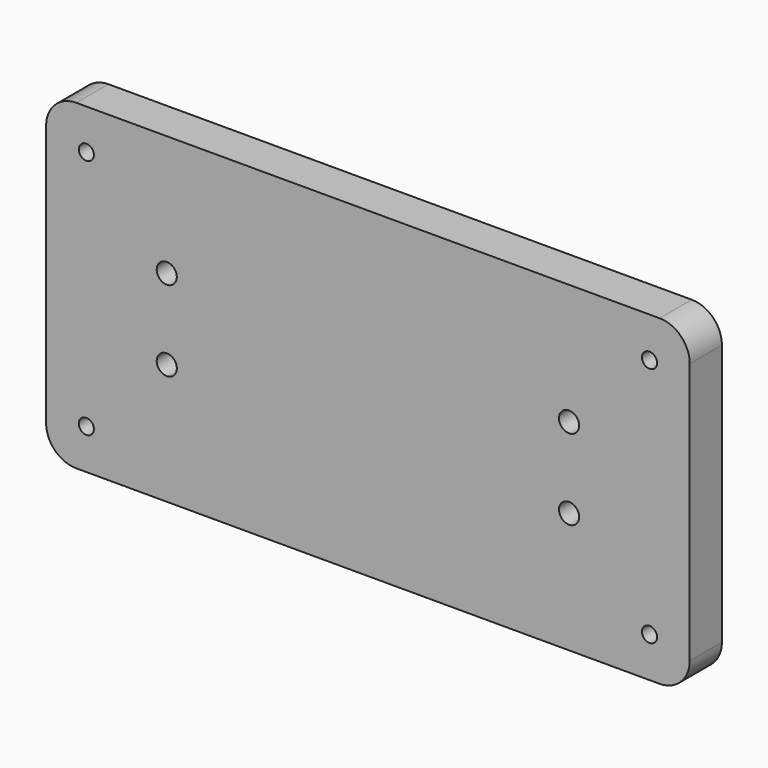
from build123d import *

# Parameters (mm, degrees)
F0_W     = 203.2
F0_H     = 101.6
F1_DEPTH = 12.7
F2_R     = 9.525
F4_D     = 4.7752
F6_D     = 6.35


with BuildPart() as f1:
    # F0 (on Front) → F1 (new body)
    with BuildSketch(Plane.XZ):
        with Locations((-0.184152, 17.884531)):
            Rectangle(F0_W, F0_H)
    extrude(amount=F1_DEPTH)

    # F2
    f2_edges = [f1.edges().sort_by_distance(p)[0] for p in [
        (-101.784152, -6.35, 68.684531),
        (101.415848, -6.35, 68.684531),
        (101.415848, -6.35, -32.915469),
        (-101.784152, -6.35, -32.915469),
    ]]
    fillet(f2_edges, radius=F2_R)

    # F4 (through all)
    with Locations(Plane.XZ.offset(12.7)):
        with Locations((-89.084152, 55.984531), (-89.084152, -20.215469), (88.715848, -20.215469), (88.715848, 55.984531)):
            Hole(F4_D / 2)

    # F6 (through all)
    with Locations(Plane.XZ.offset(12.7)):
        with Locations((-63.684152, 30.584531), (-63.684152, 5.184531), (63.315848, 5.184531), (63.315848, 30.584531)):
            Hole(F6_D / 2)


solid = f1.part
